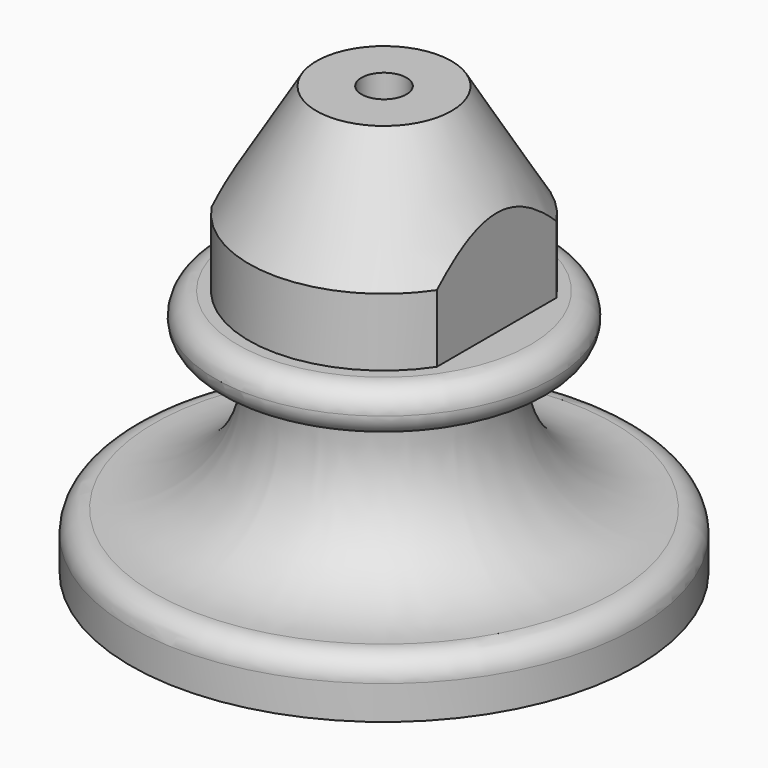
from build123d import *

# Parameters (mm, degrees)
F3_DEPTH = 16


with BuildPart() as f1:
    # F0 (on Front) → F1 (revolve)
    with BuildSketch(Plane.XZ):
        with BuildLine():
            Line((19.5, 0), (22.5, 0))
            Line((22.5, 0), (22.5, 3.001737))
            ThreePointArc((22.5, 3.001737), (21.884437, 4.445113), (20.416667, 5))
            ThreePointArc((20.416667, 5), (12.635756, 8.226118), (10.079806, 16.252171))
            ThreePointArc((10.079806, 16.252171), (10.74179, 17.500724), (12.063845, 18))
            Line((12.063845, 18), (13, 18))
            ThreePointArc((13, 18), (14.414214, 18.585786), (15, 20))
            ThreePointArc((15, 20), (14.414214, 21.414214), (13, 22))
            Line((13, 22), (12, 22))
            Line((12, 22), (12, 28))
            Line((12, 28), (6, 38))
            Line((6, 38), (2, 38))
            Line((2, 38), (2, 25))
            Line((2, 25), (5.575471, 25))
            ThreePointArc((5.575471, 25), (6.604828, 24.278116), (7, 23.08458))
            Line((7, 23.08458), (7, 14.991316))
            ThreePointArc((7, 14.991316), (10.071086, 6.599852), (17.833333, 2.173143))
            ThreePointArc((17.833333, 2.173143), (19.027525, 1.492111), (19.5, 0.201116))
            Line((19.5, 0.201116), (19.5, 0))
        make_face()
    revolve(axis=Axis((0, 0, 31.5), (0, 0, -1)))

    # F2 (on face) → F3 (cut, through all)
    with BuildSketch(Plane.XY.offset(38)):
        with BuildLine():
            ThreePointArc((10, -6.63325), (11.489125, -3.464102), (12, 0))
            ThreePointArc((12, 0), (11.489125, 3.464102), (10, 6.63325))
            Line((10, 6.63325), (10, -6.63325))
        make_face()
        with BuildLine():
            Line((-10, -6.63325), (-10, 6.63325))
            ThreePointArc((-10, 6.63325), (-12, 0), (-10, -6.63325))
        make_face()
    extrude(amount=-F3_DEPTH, mode=Mode.SUBTRACT)


solid = f1.part
